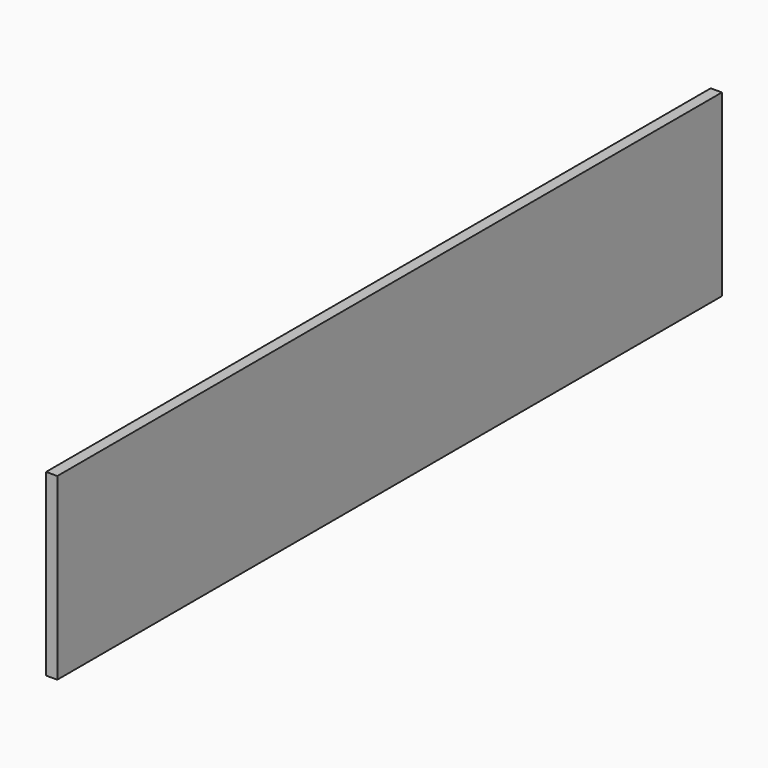
from build123d import *

# Parameters (mm, degrees)
F0_W      = 1716.786
F0_H      = 304.8
F1_DEPTH  = 19.05
F1_FACE_W = 19.05
F1_FACE_H = 304.8
F2_DEPTH  = 304.8


with BuildPart() as f1:
    # F0 (on Right) → F1 (new body)
    with BuildSketch(Plane.YZ):
        Rectangle(F0_W, F0_H)
    extrude(amount=F1_DEPTH)

    # F1_face (on face) → F2 (cut)
    with BuildSketch(Plane(origin=(9.525, 858.393, 0), x_dir=(-1, 0, 0), z_dir=(0, 1, 0))):
        Rectangle(F1_FACE_W, F1_FACE_H)
    extrude(amount=-F2_DEPTH, mode=Mode.SUBTRACT)


solid = f1.part
